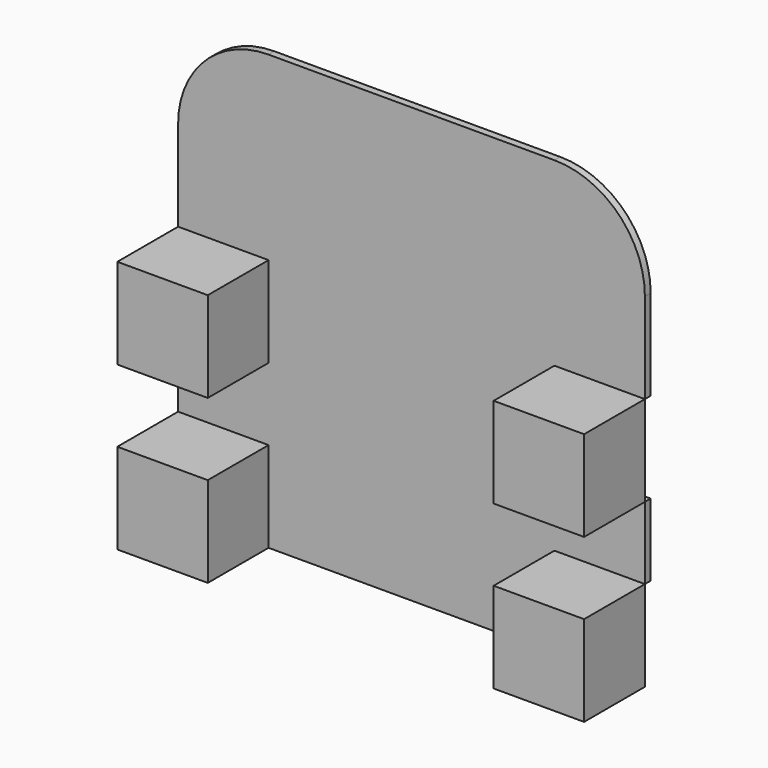
from build123d import *

# Parameters (mm, degrees)
F1_DEPTH = 0.508
F2_W     = 6.35
F2_H     = 6.35
F3_DEPTH = 5.334


with BuildPart() as f1:
    # F0 (on Front) → F1 (new body)
    with BuildSketch(Plane.XZ):
        Polygon((10.033, 2.54), (10.033, 8.89), (-10.033, 8.89), (-10.033, 2.54), (-16.383, 2.54), (-16.383, -2.54), (-10.033, -2.54), (-10.033, -8.89), (10.033, -8.89), (10.033, -2.54), (16.383, -2.54), (16.383, 2.54), align=None)
        with BuildLine():
            Line((10.033, 8.89), (16.383, 8.89))
            Line((16.383, 8.89), (16.383, 15.24))
            ThreePointArc((16.383, 15.24), (14.523128, 19.730128), (10.033, 21.59))
            Line((10.033, 21.59), (-10.033, 21.59))
            ThreePointArc((-10.033, 21.59), (-14.523128, 19.730128), (-16.383, 15.24))
            Line((-16.383, 15.24), (-16.383, 8.89))
            Line((-16.383, 8.89), (-10.033, 8.89))
            Line((-10.033, 8.89), (10.033, 8.89))
        make_face()
    extrude(amount=F1_DEPTH)


with BuildPart() as f3:
    # F2 (on face) → F3 (new body)
    with BuildSketch(Plane.XZ.offset(0.508)):
        with Locations((-13.208, 5.715)):
            Rectangle(F2_W, F2_H)
        with Locations((-13.208, -5.715)):
            Rectangle(F2_W, F2_H)
        with Locations((13.208, -5.715)):
            Rectangle(F2_W, F2_H)
        with Locations((13.208, 5.715)):
            Rectangle(F2_W, F2_H)
    extrude(amount=F3_DEPTH)


solid = Compound([f1.part, f3.part])
